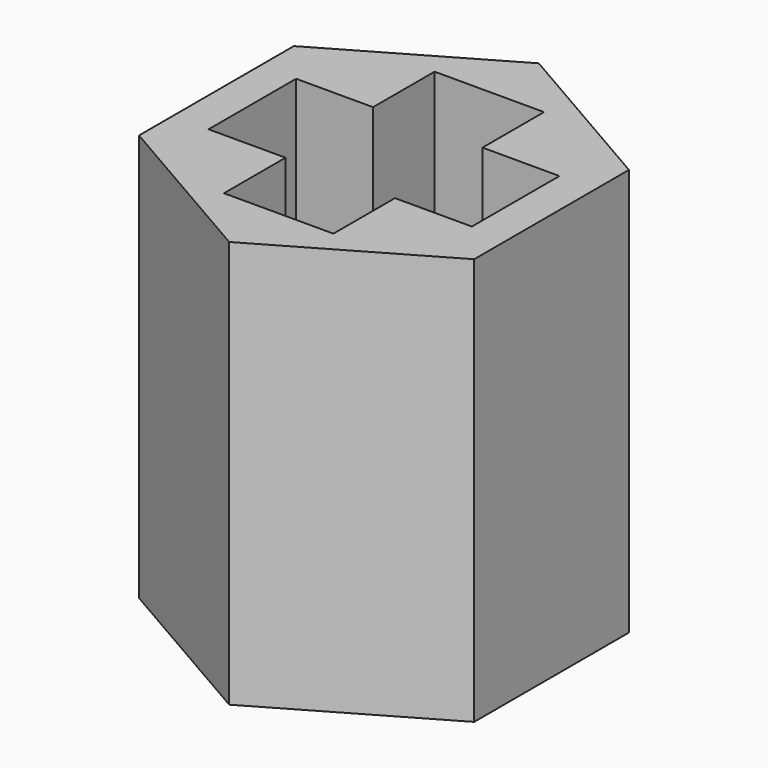
from build123d import *

# Parameters (mm, degrees)
PAD023_DEPTH    = 10
POCKET011_DEPTH = 10
SKETCH038_R     = 3
POCKET012_DEPTH = 4


with BuildPart() as part:
    # Sketch036 → Pad023 (new body)
    with BuildSketch(Plane.XY):
        Polygon((4.113621, -2.375), (4.113621, 2.375), (0, 4.75), (-4.113621, 2.375), (-4.113621, -2.375), (0, -4.75), align=None)
    extrude(amount=PAD023_DEPTH)

    # Sketch037 (on Face8 of Pad023) → Pocket011 (cut)
    with BuildSketch(Plane.XY.offset(10)):
        Polygon((-3.231873, -1.343503), (-3.231873, 1.343503), (-1.343503, 1.343503), (-1.343503, 3.231873), (1.343503, 3.231873), (1.343503, 1.343503), (3.231873, 1.343503), (3.231873, -1.343503), (1.343503, -1.343503), (1.343503, -3.231873), (-1.343503, -3.231873), (-1.343503, -1.343503), align=None)
    extrude(amount=-POCKET011_DEPTH, mode=Mode.SUBTRACT)

    # Sketch038 (on Face4 of Pocket011) → Pocket012 (cut)
    with BuildSketch(Plane(origin=(0, 0, 0), x_dir=(1, 0, 0), z_dir=(0, 0, -1))):
        Circle(SKETCH038_R)
    extrude(amount=-POCKET012_DEPTH, mode=Mode.SUBTRACT)


solid = part.part
